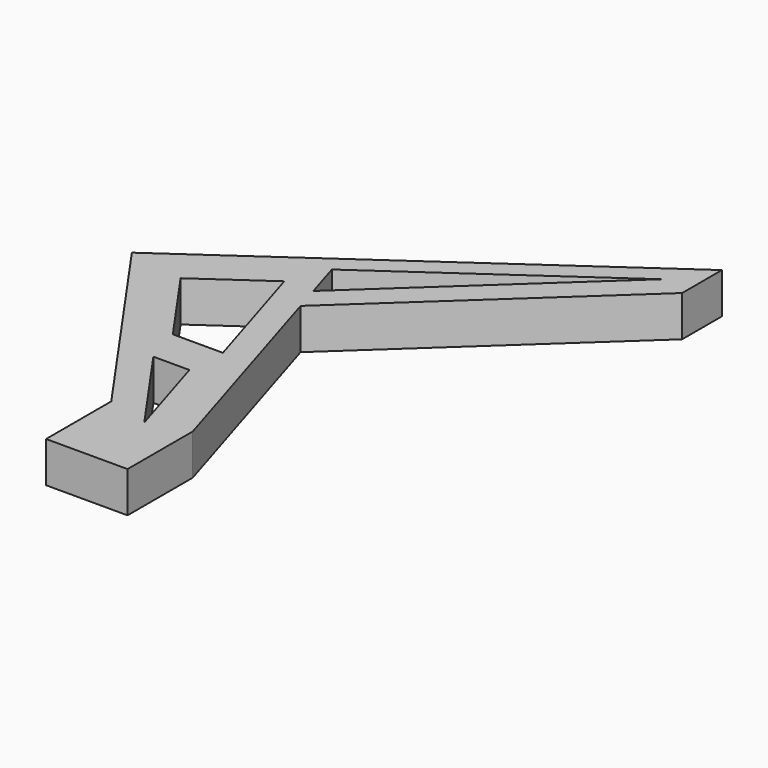
from build123d import *

# Parameters (mm, degrees)
PAD_DEPTH       = 15
POCKET_DEPTH    = 15.001
POCKET001_DEPTH = 15.001
POCKET002_DEPTH = 15.001


with BuildPart() as part:
    # Sketch → Pad (new body)
    with BuildSketch(Plane.XY):
        Polygon((86.032137, 203.51933), (86.032137, 185.207711), (5.370759, 110.416387), (30, 30), (30, 0), (0, 0), (0, 30), (-53.22371, 106.011336), align=None)
    extrude(amount=PAD_DEPTH)

    # Sketch001 (on Face10 of Pad) → Pocket (cut, through all)
    with BuildSketch(Plane.XY.offset(15)):
        Polygon((-32.332783, 102.327701), (-12.257608, 73.65738), (6.170493, 73.65738), (-7.858915, 119.464488), align=None)
    extrude(amount=-POCKET_DEPTH, mode=Mode.SUBTRACT)

    # Sketch002 (on Face5 of Pocket) → Pocket001 (cut, through all)
    with BuildSketch(Plane.XY.offset(15)):
        Polygon((-1.770811, 133.734171), (76.032137, 188.212382), (2.442314, 119.977988), align=None)
    extrude(amount=-POCKET001_DEPTH, mode=Mode.SUBTRACT)

    # Sketch003 (on Face5 of Pocket001) → Pocket002 (cut, through all)
    with BuildSketch(Plane.XY.offset(15)):
        Polygon((-7.930737, 59.294992), (5.340032, 59.294992), (15.657585, 25.607376), align=None)
    extrude(amount=-POCKET002_DEPTH, mode=Mode.SUBTRACT)


solid = part.part
